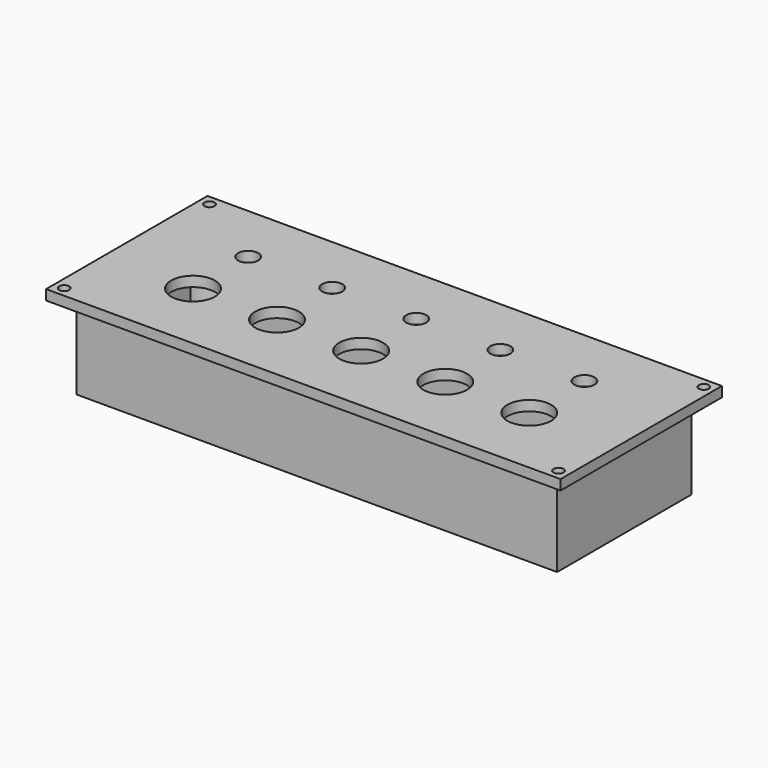
from build123d import *

# Parameters (mm, degrees)
SKETCH_W                      = 153
SKETCH_H                      = 60
PAD_DEPTH                     = 3
SKETCH002_W                   = 143
SKETCH002_H                   = 50
SKETCH002_W_2                 = 139
SKETCH002_H_2                 = 46
PAD001_DEPTH                  = 25
SKETCH003_R                   = 1.5
POCKET_DEPTH                  = 3.001
PAD002_DEPTH                  = 23
PAD002_MIRRORED_2_DEPTH       = 23
SKETCH005_R                   = 2.4
POCKET001_DEPTH               = 10
SKETCH005_MIRRORED002_2_R     = 2.4
POCKET001_MIRRORED002_2_DEPTH = 10
SKETCH006_R                   = 6.5
SKETCH006_R_2                 = 3
POCKET002_DEPTH               = 28.001


with BuildPart() as part:
    # Sketch → Pad (new body)
    with BuildSketch(Plane.XY):
        Rectangle(SKETCH_W, SKETCH_H)
    extrude(amount=PAD_DEPTH)

    # Sketch002 (on Face5 of Pad) → Pad001 (join)
    with BuildSketch(Plane(origin=(0, 0, 0), x_dir=(1, 0, 0), z_dir=(0, 0, -1))):
        Rectangle(SKETCH002_W, SKETCH002_H)
        Rectangle(SKETCH002_W_2, SKETCH002_H_2, mode=Mode.SUBTRACT)
    extrude(amount=PAD001_DEPTH)

    # Sketch003 (on Face4 of Pad001) → Pocket (cut, through all)
    with BuildSketch(Plane(origin=(0, 0, 0), x_dir=(1, 0, 0), z_dir=(0, 0, -1))):
        with Locations((-73.5, 27)):
            Circle(SKETCH003_R)
        with Locations((-73.5, -27)):
            Circle(SKETCH003_R)
        with Locations((73.5, -27)):
            Circle(SKETCH003_R)
        with Locations((73.5, 27)):
            Circle(SKETCH003_R)
    extrude(amount=-POCKET_DEPTH, mode=Mode.SUBTRACT)

    # Sketch004 (on Face20 of Pocket) → Pad002 (join)
    with BuildSketch(Plane(origin=(0, 0, 0), x_dir=(1, 0, 0), z_dir=(0, 0, -1))):
        with BuildLine():
            Line((-69.5, 23), (-61.5, 23))
            ThreePointArc((-69.5, 15), (-63.843146, 17.343146), (-61.5, 23))
            Line((-69.5, 23), (-69.5, 15))
        make_face()
    pad002 = extrude(amount=PAD002_DEPTH)

    # Sketch004 Mirrored 2 → Pad002 Mirrored 2 (add)
    with BuildSketch(Plane(origin=(0, 0, 0), x_dir=(-1, 0, 0), z_dir=(0, 0, 1))):
        with BuildLine():
            Line((-69.5, 23), (-61.5, 23))
            ThreePointArc((-69.5, 15), (-63.843146, 17.343146), (-61.5, 23))
            Line((-69.5, 23), (-69.5, 15))
        make_face()
    pad002_mirrored_2 = extrude(amount=-PAD002_MIRRORED_2_DEPTH)

    # Mirrored001: Pad002, Pad002 Mirrored 2 across Sketch004 H_Axis
    add(pad002.mirror(Plane(origin=(0, 0, 0), x_dir=(0, 0, -1), z_dir=(0, -1, 0))))
    add(pad002_mirrored_2.mirror(Plane(origin=(0, 0, 0), x_dir=(0, 0, -1), z_dir=(0, -1, 0))))

    # Sketch005 (on Face20 of MultiTransform) → Pocket001 (cut)
    with BuildSketch(Plane(origin=(0, 0, -23), x_dir=(1, 0, 0), z_dir=(0, 0, -1))):
        with Locations((-66.5, 20)):
            Circle(SKETCH005_R)
    pocket001 = extrude(amount=-POCKET001_DEPTH, mode=Mode.SUBTRACT)

    # Sketch005 Mirrored002 2 → Pocket001 Mirrored002 2 (cut)
    with BuildSketch(Plane(origin=(0, 0, -23), x_dir=(-1, 0, 0), z_dir=(0, 0, 1))):
        with Locations((-66.5, 20)):
            Circle(SKETCH005_MIRRORED002_2_R)
    pocket001_mirrored002_2 = extrude(amount=POCKET001_MIRRORED002_2_DEPTH, mode=Mode.SUBTRACT)

    # Mirrored003: Pocket001, Pocket001 Mirrored002 2 across Sketch005 H_Axis
    add(pocket001.mirror(Plane(origin=(0, 0, -23), x_dir=(0, 0, -1), z_dir=(0, -1, 0))), mode=Mode.SUBTRACT)
    add(pocket001_mirrored002_2.mirror(Plane(origin=(0, 0, -23), x_dir=(0, 0, -1), z_dir=(0, -1, 0))), mode=Mode.SUBTRACT)

    # Sketch006 (on Face5 of MultiTransform001) → Pocket002 (cut, through all)
    with BuildSketch(Plane.XY.offset(3)):
        with Locations((-50, -8.5)):
            Circle(SKETCH006_R)
        with Locations((-25, -8.5)):
            Circle(SKETCH006_R)
        with Locations((0, -8.5)):
            Circle(SKETCH006_R)
        with Locations((25, -8.5)):
            Circle(SKETCH006_R)
        with Locations((50, -8.5)):
            Circle(SKETCH006_R)
        with Locations((-50, 12)):
            Circle(SKETCH006_R_2)
        with Locations((-25, 12)):
            Circle(SKETCH006_R_2)
        with Locations((0, 12)):
            Circle(SKETCH006_R_2)
        with Locations((25, 12)):
            Circle(SKETCH006_R_2)
        with Locations((50, 12)):
            Circle(SKETCH006_R_2)
    extrude(amount=-POCKET002_DEPTH, mode=Mode.SUBTRACT)


solid = part.part
